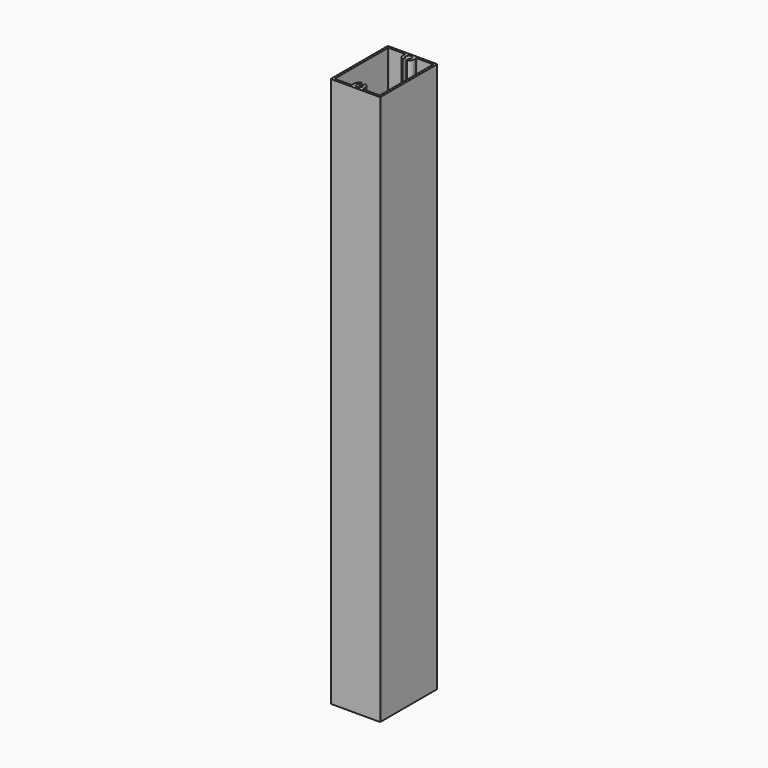
from build123d import *

# Parameters (mm, degrees)
F1_DEPTH = 500


with BuildPart() as f1:
    # F0 (on Top) → F1 (new body)
    with BuildSketch(Plane.XY):
        with BuildLine():
            ThreePointArc((0, 0.6), (0.175736, 0.175736), (0.6, 0))
            Line((0.6, 0), (44.4, 0))
            ThreePointArc((44.4, 0), (44.824264, 0.175736), (45, 0.6))
            Line((45, 0.6), (45, 64.4))
            ThreePointArc((45, 64.4), (44.824264, 64.824264), (44.4, 65))
            Line((44.4, 65), (0.6, 65))
            ThreePointArc((0.6, 65), (0.175736, 64.824264), (0, 64.4))
            Line((0, 64.4), (0, 0.6))
        make_face()
        with BuildLine():
            ThreePointArc((2.5, 2), (2.146447, 2.146447), (2, 2.5))
            Line((2, 2.5), (2, 62.5))
            ThreePointArc((2, 62.5), (2.146447, 62.853553), (2.5, 63))
            Line((2.5, 63), (17, 63))
            ThreePointArc((17, 63), (17.353553, 62.853553), (17.5, 62.5))
            Line((17.5, 62.5), (17.5, 60.5))
            ThreePointArc((17.5, 60.5), (18.250817, 57.864769), (20.277778, 56.020968))
            ThreePointArc((20.277778, 56.020968), (20.763523, 56.043953), (21, 56.468871))
            Line((21, 56.468871), (21, 58.131456))
            ThreePointArc((21, 58.131456), (20.953481, 58.342062), (20.822581, 58.513479))
            ThreePointArc((20.822581, 58.513479), (22.5, 63.1), (24.177419, 58.513479))
            ThreePointArc((24.177419, 58.513479), (24.046519, 58.342062), (24, 58.131456))
            Line((24, 58.131456), (24, 56.468871))
            ThreePointArc((24, 56.468871), (24.236477, 56.043953), (24.722222, 56.020968))
            ThreePointArc((24.722222, 56.020968), (26.749183, 57.864769), (27.5, 60.5))
            Line((27.5, 60.5), (27.5, 62.5))
            ThreePointArc((27.5, 62.5), (27.646447, 62.853553), (28, 63))
            Line((28, 63), (42.5, 63))
            ThreePointArc((42.5, 63), (42.853553, 62.853553), (43, 62.5))
            Line((43, 62.5), (43, 2.5))
            ThreePointArc((43, 2.5), (42.853553, 2.146447), (42.5, 2))
            Line((42.5, 2), (28, 2))
            ThreePointArc((28, 2), (27.646447, 2.146447), (27.5, 2.5))
            Line((27.5, 2.5), (27.5, 4.5))
            ThreePointArc((27.5, 4.5), (26.749183, 7.135231), (24.722222, 8.979032))
            ThreePointArc((24.722222, 8.979032), (24.236477, 8.956047), (24, 8.531129))
            Line((24, 8.531129), (24, 6.868544))
            ThreePointArc((24, 6.868544), (24.046519, 6.657938), (24.177419, 6.486521))
            ThreePointArc((24.177419, 6.486521), (22.5, 1.9), (20.822581, 6.486521))
            ThreePointArc((20.822581, 6.486521), (20.953481, 6.657938), (21, 6.868544))
            Line((21, 6.868544), (21, 8.531129))
            ThreePointArc((21, 8.531129), (20.763523, 8.956047), (20.277778, 8.979032))
            ThreePointArc((20.277778, 8.979032), (18.250817, 7.135231), (17.5, 4.5))
            Line((17.5, 4.5), (17.5, 2.5))
            ThreePointArc((17.5, 2.5), (17.353553, 2.146447), (17, 2))
            Line((17, 2), (2.5, 2))
        make_face(mode=Mode.SUBTRACT)
    extrude(amount=F1_DEPTH)


solid = f1.part
